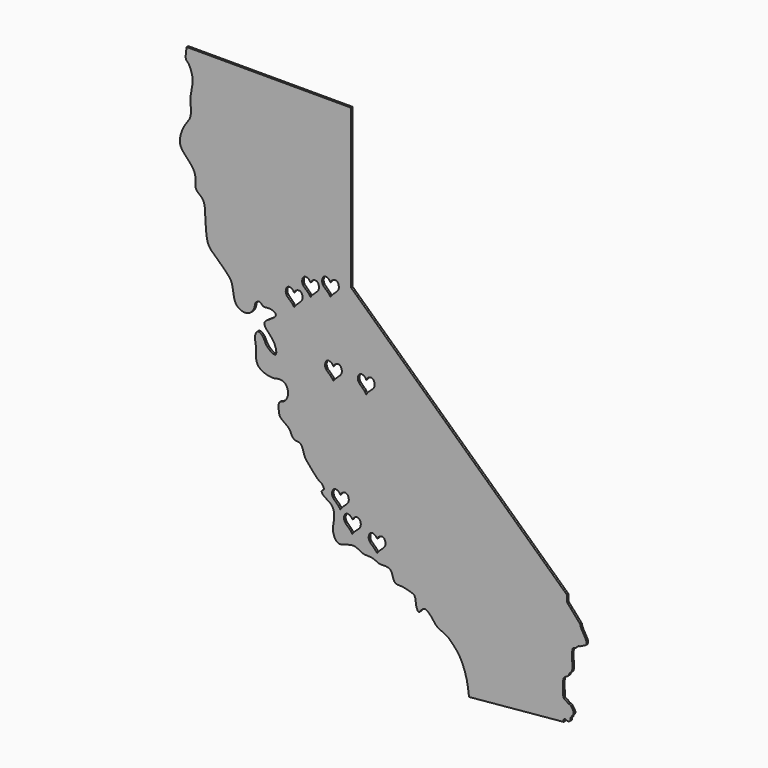
from build123d import *

# Parameters (mm, degrees)
F1_DEPTH = 3.175
F3_DEPTH = 3.1760001


with BuildPart() as f1:
    # F0 (on Front) → F1 (new body)
    with BuildSketch(Plane.XZ):
        with BuildLine():
            Line((-374.5172230097, 762), (-635.45609896, 762))
            add(Edge.make_bspline(
                [(-187.5188029729, 0), (-188.2921832049, 6.7155184121), (-189.853259556, 20.2708648587), (-196.1868413275, 40.78118767), (-203.9972148089, 55.7065082282), (-215.2047469091, 67.5156028046), (-223.3678049676, 75.4366514879), (-239.1153043692, 80.2578817811), (-245.0313269306, 90.6255875856), (-258.447207474, 104.7450440162), (-265.2020545388, 93.3681801769), (-268.2691447508, 91.7884957602), (-272.3652262293, 100.4885439134), (-272.0980978295, 114.7080206484), (-280.9057215803, 116.4952608668), (-292.8641553167, 120.3251311413), (-302.0937989102, 119.19931451), (-308.2739446852, 123.69665235), (-309.2579604987, 137.7253624702), (-321.128850154, 140.3828820428), (-330.1081682981, 138.4666184769), (-341.0322147597, 146.122337946), (-355.9705154493, 143.2815741957), (-367.084216778, 153.3809231713), (-381.6031630169, 149.8954435939), (-389.4730216687, 146.701001893), (-398.2583012329, 146.6819935807), (-405.2756067955, 162.7064087526), (-401.1088556806, 175.8046724836), (-400.7093810953, 198.0794691262), (-419.3569719517, 204.7336239225), (-422.5478531481, 212.749222115), (-415.6426678441, 213.9875243903), (-421.1793268647, 223.4761470942), (-426.7407816648, 223.8790824803), (-442.0349817102, 242.765630613), (-449.4293840912, 250.4242205909), (-452.4077349326, 269.5347803847), (-464.2543674448, 267.1052628602), (-470.3391172032, 275.5244972452), (-471.4038232002, 282.7495438044), (-486.0804544907, 291.0570380151), (-489.2494676847, 296.8349163497), (-490.5472464129, 314.3931584727), (-484.8026690688, 315.3483519754), (-478.5366728838, 318.3155588543), (-473.0019920451, 328.875356005), (-476.9598609877, 344.3654596318), (-489.8383703963, 346.8109111686), (-498.0687671957, 342.7421434768), (-524.9632695632, 349.0079729648), (-525.8653086305, 369.3113521843), (-524.8404977093, 379.2504240562), (-528.307354875, 391.7140754109), (-523.9431796445, 404.616078594), (-512.3121863799, 396.570245326), (-510.9976042668, 385.857736768), (-490.6481141466, 371.6466417894), (-494.9394334898, 395.8330409743), (-508.1226734716, 406.8894440686), (-516.2607310254, 419.6224261685), (-494.1554290088, 428.5063497356), (-493.2514208388, 436.9319315761), (-505.1731309751, 440.8485692165), (-514.8724071698, 437.3271347328), (-518.7122914245, 445.9883837438), (-527.6521542207, 440.6534708466), (-526.722174531, 433.1283581299), (-535.7779484926, 418.4210516362), (-560.9185793976, 423.5306546218), (-561.3525493161, 452.9007742734), (-569.1411259347, 465.9271473253), (-592.0471299301, 486.1238655836), (-605.7780127602, 499.4747192821), (-604.9892455177, 542.925040439), (-608.9508240849, 560.0357209126), (-624.4960688489, 567.1876737259), (-618.0940282881, 589.426135665), (-635.6425179896, 607.8732272099), (-650.2572173324, 623.2531283014), (-640.1925567187, 652.5621707815), (-626.5127203629, 665.2440349125), (-630.4130062106, 688.8238537182), (-628.2537921537, 701.8326672766), (-623.7351396176, 721.3768176558), (-632.0781864176, 741.2854791966), (-638.212746085, 743.5507540193), (-636.5461912605, 754.7044049957), (-635.45609896, 762)],
                knots=[0, 0, 0, 0, 0.0145559064, 0.0293812542, 0.0426327762, 0.0553843649, 0.0662885283, 0.0787533293, 0.0903185372, 0.102831153, 0.1128444881, 0.1176504533, 0.1268904875, 0.1386357774, 0.1473950651, 0.1588897674, 0.1685042767, 0.1766894676, 0.1880146683, 0.1983070091, 0.207911152, 0.2191474523, 0.231246811, 0.243125349, 0.255055681, 0.2645192038, 0.2731238975, 0.2855511256, 0.2978338732, 0.3120247386, 0.3256843979, 0.3334135415, 0.3399379346, 0.3490225239, 0.3568131888, 0.372100594, 0.38349723, 0.3962186789, 0.4059442215, 0.4155346986, 0.4242154657, 0.4367821303, 0.4455928209, 0.4581972756, 0.4649365939, 0.473114751, 0.4839009943, 0.4959916545, 0.5065342753, 0.5164015617, 0.5320588931, 0.5454707313, 0.5557622197, 0.5674057734, 0.5774663386, 0.5874228832, 0.5987008498, 0.611422293, 0.6238614857, 0.6380832388, 0.6484064796, 0.6627613257, 0.6704143266, 0.6810303567, 0.6908429075, 0.6991147992, 0.7077955754, 0.7164407024, 0.7287046221, 0.7427935877, 0.7590779567, 0.7718719651, 0.7891823512, 0.8033371652, 0.8240784543, 0.8373685575, 0.8490377235, 0.863105924, 0.8789076846, 0.8931906414, 0.9100486862, 0.923829334, 0.9387108245, 0.9505581779, 0.9649772399, 0.9793183468, 0.9864721456, 1, 1, 1, 1], degree=3))
            Line((-187.5188029729, 0), (-37.4325221548, 13.9522022353))
            add(Edge.make_bspline(
                [(-37.4325221548, 13.9522022353), (-37.5086685622, 14.9477649183), (-37.6394401134, 16.6575143452), (-36.8537154657, 17.8584867071), (-35.490677674, 19.2538210149), (-33.1027435639, 17.983872134), (-29.9253296482, 16.6041314486), (-28.2128861495, 17.791139515), (-26.7457973584, 18.9412321994), (-26.7874007857, 21.708987821), (-26.717577516, 23.3833496104), (-25.6527773029, 24.4213950524), (-23.9595873075, 24.8963935714), (-24.5553019623, 26.4320062165), (-23.2655190689, 27.7929531937), (-22.1074526217, 28.9068281747), (-21.4341242633, 30.0419136641), (-21.3170714668, 32.9349084108), (-22.0889218979, 34.5856361423), (-25.1454644209, 38.727577254), (-27.2083881795, 42.2168859246), (-30.6627868528, 41.57137329), (-31.9907256206, 44.0277612921), (-34.2164098166, 45.5338638566), (-35.7404462035, 45.2454282462), (-38.0586520713, 47.7226688143), (-38.3912690814, 53.6699900568), (-38.442811209, 67.7627939801), (-38.1784638765, 72.6183552993), (-36.9577393934, 76.5929015228), (-34.482374014, 78.1986650037), (-30.7810038607, 79.7673242599), (-28.5100260055, 82.795431307), (-28.5270992599, 85.5593950828), (-24.2197603297, 87.2503127556), (-23.8576507681, 91.574310403), (-22.9194619366, 97.1021453086), (-23.7173645398, 101.2162707132), (-24.3265287634, 105.7339589654), (-24.6344155366, 110.9820023749), (-24.4603403078, 115.1703319057), (-23.5286167791, 117.5965760178), (-24.0460607018, 119.5447686934), (-21.3949211377, 123.4036444481), (-18.3823433169, 122.4644702528), (-14.7216454758, 127.8863825473), (-11.4667972927, 127.4751460211), (-6.0131252099, 130.9729848706), (-1.7869124248, 132.1177704218), (-0.7077140988, 136.7316819676), (-2.8940813913, 142.4577896169), (-7.937217541, 150.0399447655), (-10.3281750198, 155.0920125647), (-10.9109602274, 157.7264428809), (-11.1730629578, 158.9112556898)],
                knots=[0, 0, 0, 0, 0.0173225841, 0.0297492853, 0.0430491722, 0.0597728834, 0.0791205229, 0.0934959375, 0.107400361, 0.1245588209, 0.1381204648, 0.1506236845, 0.1632964717, 0.1749886462, 0.1890095647, 0.2024028203, 0.2144610186, 0.2317641137, 0.2462590125, 0.270245481, 0.2909391389, 0.3085463148, 0.3254304213, 0.3422036415, 0.3545244373, 0.3718327755, 0.3979703688, 0.4378027819, 0.4617616354, 0.4819965121, 0.4997396089, 0.5209159224, 0.5408972913, 0.557311984, 0.5780626473, 0.599385493, 0.6244377772, 0.6459923303, 0.6684622184, 0.6929389902, 0.7146024812, 0.7309304324, 0.7455924753, 0.7665895453, 0.7837626364, 0.8087812265, 0.8273735194, 0.8538477074, 0.8754233306, 0.8962152949, 0.9223828417, 0.9545526467, 0.9795604363, 1, 1, 1, 1], degree=3))
            Line((-11.1730629578, 158.9112556898), (-32.3829799891, 183.108494832))
            Line((-32.3829799891, 183.108494832), (-32.3829799891, 193.2653498191))
            Line((-32.3829799891, 193.2653498191), (-374.5172230097, 510.6710356015))
            Line((-374.5172230097, 510.6710356015), (-374.5172230097, 762))
        make_face()
    extrude(amount=F1_DEPTH)

    # F2 (on face) → F3 (cut, through all)
    with BuildSketch(Plane.XZ.offset(3.175)):
        with BuildLine():
            add(Edge.make_bspline(
                [(-438.902237606, 496.9216585159), (-438.150255046, 498.3781885172), (-436.287958733, 501.7169930135), (-427.1341666835, 504.2478212591), (-422.9888256847, 488.1338194929), (-435.0013858787, 483.5707251299), (-438.902237606, 476.4612146378)],
                knots=[0, 0, 0, 0, 0.18190021, 0.3903411707, 0.6514717907, 1, 1, 1, 1], degree=3))
            add(Edge.make_bspline(
                [(-438.902237606, 496.9216585159), (-439.6542201661, 498.3781885172), (-441.5165164791, 501.7169930135), (-450.6703085286, 504.2478212591), (-454.8156495274, 488.1338194929), (-442.8030893334, 483.5707251299), (-438.902237606, 476.4612146378)],
                knots=[0, 0, 0, 0, 0.18190021, 0.3903411707, 0.6514717907, 1, 1, 1, 1], degree=3))
        make_face()
        with BuildLine():
            add(Edge.make_bspline(
                [(-464.969864893, 474.3344060421), (-464.2178823329, 475.7909360433), (-462.3555860199, 479.1297405397), (-453.2017939705, 481.6605687853), (-449.0564529716, 465.5465670191), (-461.0690131656, 460.9834726561), (-464.969864893, 453.8739621639)],
                knots=[0, 0, 0, 0, 0.18190021, 0.3903411707, 0.6514717907, 1, 1, 1, 1], degree=3))
            add(Edge.make_bspline(
                [(-464.969864893, 474.3344060421), (-465.721847453, 475.7909360433), (-467.584143766, 479.1297405397), (-476.7379358155, 481.6605687853), (-480.8832768143, 465.5465670191), (-468.8707166204, 460.9834726561), (-464.969864893, 453.8739621639)],
                knots=[0, 0, 0, 0, 0.18190021, 0.3903411707, 0.6514717907, 1, 1, 1, 1], degree=3))
        make_face()
        with BuildLine():
            add(Edge.make_bspline(
                [(-407.3312495232, 507.4141494274), (-406.5792669631, 508.8706794286), (-404.7169706501, 512.209483925), (-395.5631786007, 514.7403121706), (-391.4178376018, 498.6263104044), (-403.4303977958, 494.0632160414), (-407.3312495232, 486.9537055492)],
                knots=[0, 0, 0, 0, 0.18190021, 0.3903411707, 0.6514717907, 1, 1, 1, 1], degree=3))
            add(Edge.make_bspline(
                [(-407.3312495232, 507.4141494274), (-408.0832320832, 508.8706794286), (-409.9455283962, 512.209483925), (-419.0993204457, 514.7403121706), (-423.2446614445, 498.6263104044), (-411.2321012506, 494.0632160414), (-407.3312495232, 486.9537055492)],
                knots=[0, 0, 0, 0, 0.18190021, 0.3903411707, 0.6514717907, 1, 1, 1, 1], degree=3))
        make_face()
        with BuildLine():
            add(Edge.make_bspline(
                [(-402.564227581, 391.5857776675), (-401.812245021, 393.0423076687), (-399.949948708, 396.3811121651), (-390.7961566585, 398.9119404107), (-386.6508156597, 382.7979386445), (-398.6633758536, 378.2348442815), (-402.564227581, 371.1253337893)],
                knots=[0, 0, 0, 0, 0.18190021, 0.3903411707, 0.6514717907, 1, 1, 1, 1], degree=3))
            add(Edge.make_bspline(
                [(-402.564227581, 391.5857776675), (-403.3162101411, 393.0423076687), (-405.1785064541, 396.3811121651), (-414.3322985035, 398.9119404107), (-418.4776395024, 382.7979386445), (-406.4650793084, 378.2348442815), (-402.564227581, 371.1253337893)],
                knots=[0, 0, 0, 0, 0.18190021, 0.3903411707, 0.6514717907, 1, 1, 1, 1], degree=3))
        make_face()
        with BuildLine():
            add(Edge.make_bspline(
                [(-350.505232811, 389.8059829745), (-349.7532502509, 391.2625129757), (-347.8909539379, 394.6013174721), (-338.7371618885, 397.1321457177), (-334.5918208896, 381.0181439515), (-346.6043810836, 376.4550495885), (-350.505232811, 369.3455390963)],
                knots=[0, 0, 0, 0, 0.18190021, 0.3903411707, 0.6514717907, 1, 1, 1, 1], degree=3))
            add(Edge.make_bspline(
                [(-350.505232811, 389.8059829745), (-351.257215371, 391.2625129757), (-353.119511684, 394.6013174721), (-362.2733037335, 397.1321457177), (-366.4186447323, 381.0181439515), (-354.4060845384, 376.4550495885), (-350.505232811, 369.3455390963)],
                knots=[0, 0, 0, 0, 0.18190021, 0.3903411707, 0.6514717907, 1, 1, 1, 1], degree=3))
        make_face()
        with BuildLine():
            add(Edge.make_bspline(
                [(-391.5724754333, 215.6985059056), (-390.8204928733, 217.1550359068), (-388.9581965603, 220.4938404032), (-379.8044045108, 223.0246686488), (-375.659063512, 206.9106668826), (-387.671623706, 202.3475725196), (-391.5724754333, 195.2380620274)],
                knots=[0, 0, 0, 0, 0.18190021, 0.3903411707, 0.6514717907, 1, 1, 1, 1], degree=3))
            add(Edge.make_bspline(
                [(-391.5724754333, 215.6985059056), (-392.3244579934, 217.1550359068), (-394.1867543064, 220.4938404032), (-403.3405463559, 223.0246686488), (-407.4858873547, 206.9106668826), (-395.4733271607, 202.3475725196), (-391.5724754333, 195.2380620274)],
                knots=[0, 0, 0, 0, 0.18190021, 0.3903411707, 0.6514717907, 1, 1, 1, 1], degree=3))
        make_face()
        with BuildLine():
            add(Edge.make_bspline(
                [(-372.5179433823, 187.5138833794), (-371.7659608222, 188.9704133806), (-369.9036645092, 192.309217877), (-360.7498724598, 194.8400461226), (-356.6045314609, 178.7260443564), (-368.6170916549, 174.1629499934), (-372.5179433823, 167.0534395012)],
                knots=[0, 0, 0, 0, 0.18190021, 0.3903411707, 0.6514717907, 1, 1, 1, 1], degree=3))
            add(Edge.make_bspline(
                [(-372.5179433823, 187.5138833794), (-373.2699259423, 188.9704133806), (-375.1322222553, 192.309217877), (-384.2860143048, 194.8400461226), (-388.4313553036, 178.7260443564), (-376.4187951097, 174.1629499934), (-372.5179433823, 167.0534395012)],
                knots=[0, 0, 0, 0, 0.18190021, 0.3903411707, 0.6514717907, 1, 1, 1, 1], degree=3))
        make_face()
        with BuildLine():
            add(Edge.make_bspline(
                [(-333.3870768547, 173.4072670016), (-332.6350942947, 174.8637970028), (-330.7727979816, 178.2026014992), (-321.6190059322, 180.7334297448), (-317.4736649334, 164.6194279786), (-329.4862251273, 160.0563336156), (-333.3870768547, 152.9468231234)],
                knots=[0, 0, 0, 0, 0.18190021, 0.3903411707, 0.6514717907, 1, 1, 1, 1], degree=3))
            add(Edge.make_bspline(
                [(-333.3870768547, 173.4072670016), (-334.1390594148, 174.8637970028), (-336.0013557278, 178.2026014992), (-345.1551477772, 180.7334297448), (-349.300488776, 164.6194279786), (-337.2879285821, 160.0563336156), (-333.3870768547, 152.9468231234)],
                knots=[0, 0, 0, 0, 0.18190021, 0.3903411707, 0.6514717907, 1, 1, 1, 1], degree=3))
        make_face()
    extrude(amount=-F3_DEPTH, mode=Mode.SUBTRACT)


solid = f1.part
